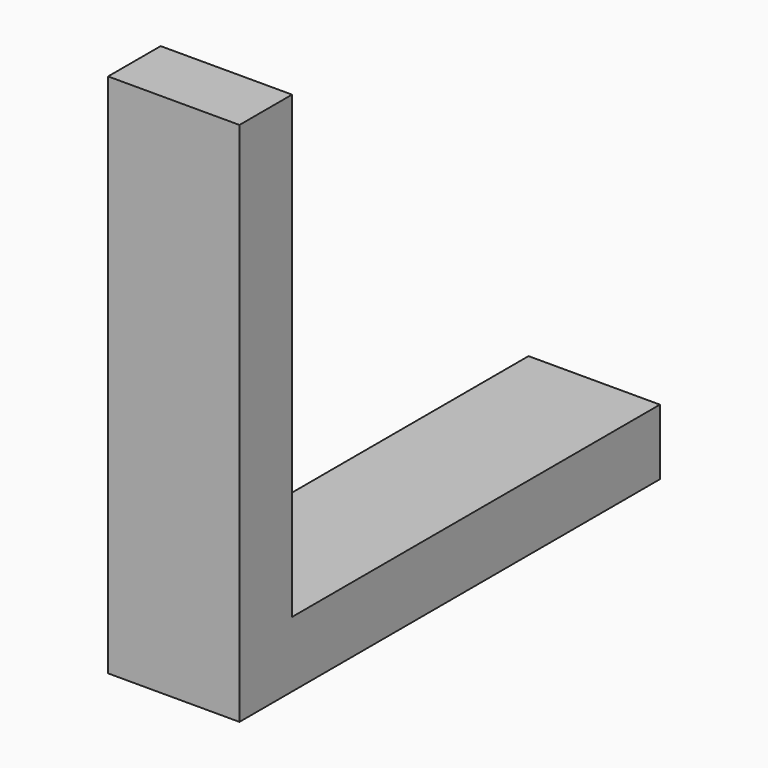
from build123d import *

# Parameters (mm, degrees)
BOX_W        = 5
BOX_H        = 20
BOX_DEPTH    = 2.5
BOX002_W     = 5
BOX002_H     = 2.5
BOX002_DEPTH = 20


with BuildPart() as box:
    # Box → Box (new body)
    with BuildSketch(Plane.XY):
        with Locations((2.5, 10)):
            Rectangle(BOX_W, BOX_H)
    extrude(amount=BOX_DEPTH)


with BuildPart() as fusion:
    # Box002 → Box002 (new body)
    with BuildSketch(Plane.XY):
        with Locations((2.5, 1.25)):
            Rectangle(BOX002_W, BOX002_H)
    extrude(amount=BOX002_DEPTH)

    # Fusion: union Box
    add(box.part)


solid = fusion.part
